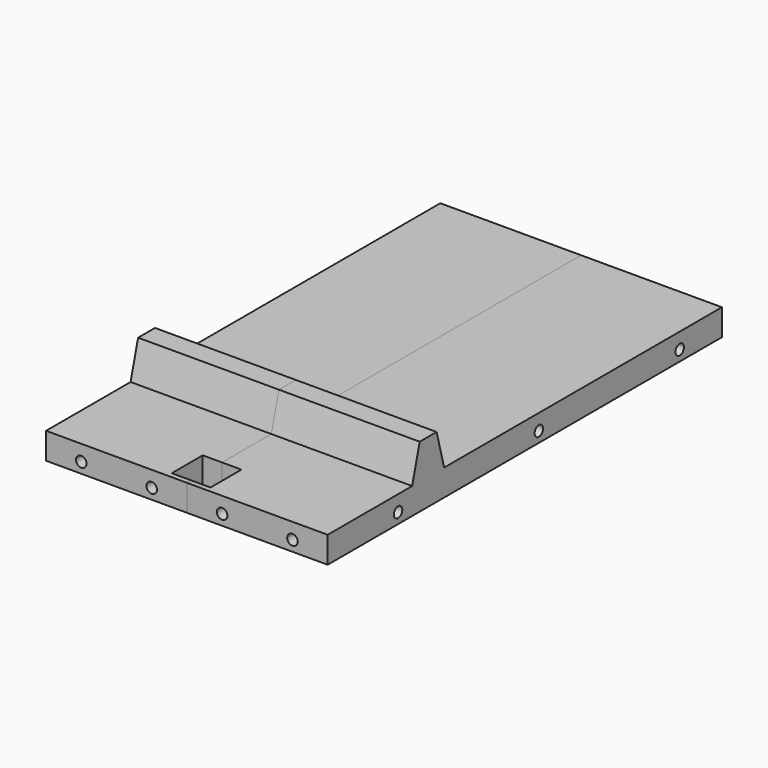
from build123d import *

# Parameters (mm, degrees)
F0_W      = 80
F0_H      = 280
F1_DEPTH  = 15
F3_DEPTH  = 80
F4_W      = 11
F4_H      = 22
F5_DEPTH  = 15
F7_R      = 3
F7_R_2    = 6.556779
F8_DEPTH  = 280.001
F9_R      = 3
F10_DEPTH = 80.001


with BuildPart() as f1:
    # F0 (on Top) → F1 (new body)
    with BuildSketch(Plane.XY):
        with Locations((40, 140)):
            Rectangle(F0_W, F0_H)
    extrude(amount=F1_DEPTH)

    # F2 (on face) → F3 (join)
    with BuildSketch(Plane.YZ.offset(80)):
        Polygon((65.358984, 35), (60, 15), (82.717968, 15), (77.358984, 35), align=None)
    extrude(amount=-F3_DEPTH)

    # F4 (on face) → F5 (cut, through all)
    with BuildSketch(Plane.XY.offset(15)):
        with Locations((5.5, 14)):
            Rectangle(F4_W, F4_H)
    extrude(amount=-F5_DEPTH, mode=Mode.SUBTRACT)

    # F7 (on face) → F8 (cut, through all)
    with BuildSketch(Plane.XZ):
        with Locations((60, 6)):
            Circle(F7_R)
        with Locations((-491.183044, 5.330358)):
            Circle(F7_R_2)
        with Locations((20, 6)):
            Circle(F7_R)
    extrude(amount=-F8_DEPTH, mode=Mode.SUBTRACT)

    # F9 (on face) → F10 (cut, through all)
    with BuildSketch(Plane.YZ.offset(80)):
        with Locations((50, 6)):
            Circle(F9_R)
        with Locations((150, 6)):
            Circle(F9_R)
        with Locations((250, 6)):
            Circle(F9_R)
    extrude(amount=-F10_DEPTH, mode=Mode.SUBTRACT)


with BuildPart() as f11_1:
    # F11: instance of F1
    add(f1.part.mirror(Plane(origin=(0, 145.659771, 8.93017), x_dir=(0, -1, 0), z_dir=(-1, 0, 0))))


solid = Compound([f1.part, f11_1.part])
